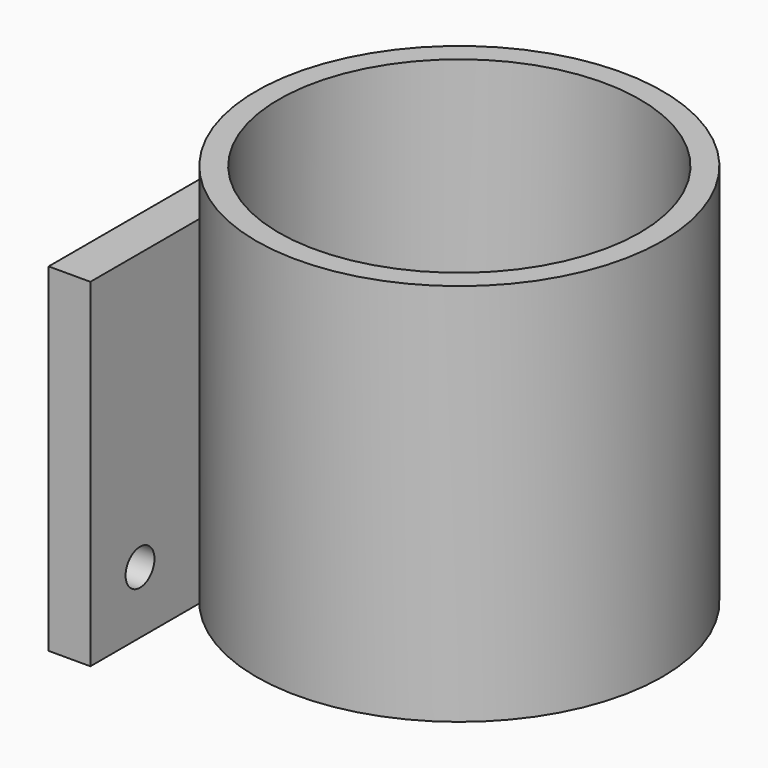
from build123d import *

# Parameters (mm, degrees)
SKETCH001_W       = 3.7
SKETCH001_H       = 38
PAD001_DEPTH      = 30
SKETCH002_R       = 1.6
POCKET_DEPTH      = 6
POCKET_DEPTH_BACK = 100
COPYSKETCH003_R   = 18
COPYSKETCH003_R_2 = 16
PAD002_DEPTH      = 34


with BuildPart() as part:
    # Sketch001 → Pad001 (new body)
    with BuildSketch(Plane.XY):
        with Locations((1.85, 19)):
            Rectangle(SKETCH001_W, SKETCH001_H)
    extrude(amount=PAD001_DEPTH)

    # Sketch002 (on Face4 of Pad001) → Pocket (cut, two sides)
    with BuildSketch(Plane(origin=(0, 0, 0), x_dir=(0, -1, 0), z_dir=(-1, 0, 0))) as pocket_sk:
        with Locations((-5.5, 5.5)):
            Circle(SKETCH002_R)
        with Locations((-32.5, 5.5)):
            Circle(SKETCH002_R)
    extrude(amount=-POCKET_DEPTH, mode=Mode.SUBTRACT)
    extrude(pocket_sk.sketch, amount=POCKET_DEPTH_BACK, mode=Mode.SUBTRACT)

    # CopySketch003 → Pad002 (join)
    with BuildSketch(Plane.XY.offset(3)):
        with Locations((21.2, 19)):
            Circle(COPYSKETCH003_R)
        with Locations((21.2, 19)):
            Circle(COPYSKETCH003_R_2, mode=Mode.SUBTRACT)
    extrude(amount=PAD002_DEPTH)


solid = part.part
